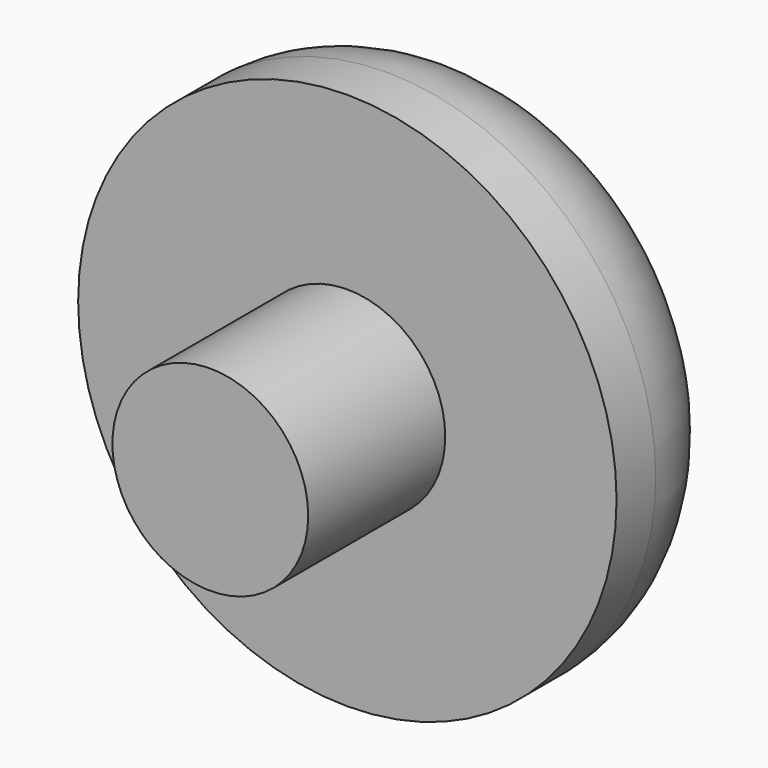
from build123d import *

# Parameters (mm, degrees)
F0_R     = 4
F1_DEPTH = 7
F0_R_2   = 11
F2_DEPTH = 7
F3_R     = 5


with BuildPart() as f1:
    # F0 (on Front) → F1 (new body, symmetric)
    with BuildSketch(Plane.XZ):
        Circle(F0_R)
    extrude(amount=F1_DEPTH, both=True)


with BuildPart() as f2:
    # F0 (on Front) → F2 (new body)
    with BuildSketch(Plane.XZ):
        Circle(F0_R_2)
        Circle(F0_R, mode=Mode.SUBTRACT)
    extrude(amount=-F2_DEPTH)

    # F3
    f3_edges = [f2.edges().sort_by_distance(p)[0] for p in [
        (-11, 7, 0),
    ]]
    fillet(f3_edges, radius=F3_R)


solid = Compound([f1.part, f2.part])
